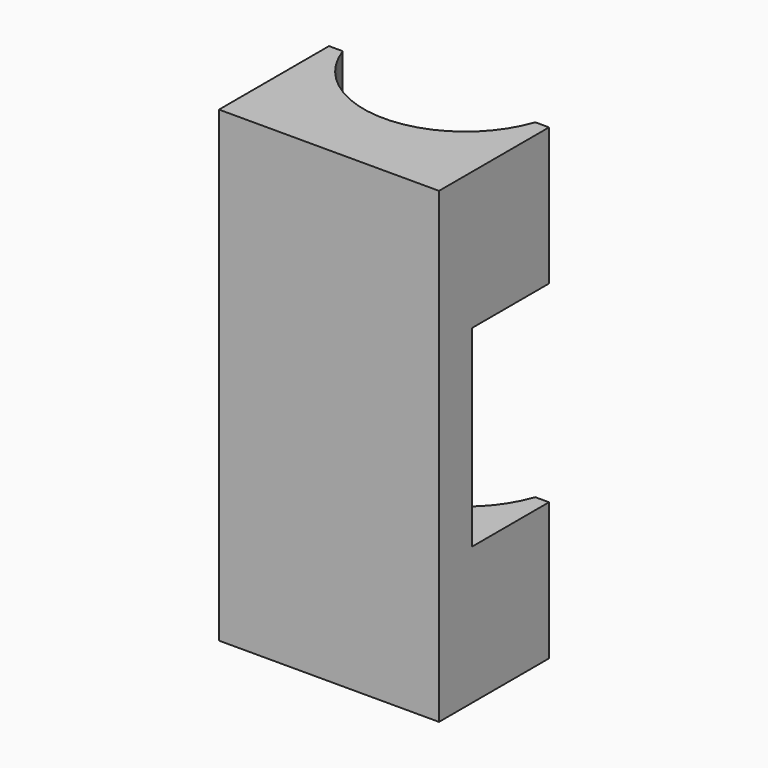
from build123d import *

# Parameters (mm, degrees)
F1_DEPTH = 25
F2_W     = 40
F2_H     = 12.5
F3_DEPTH = 35
F5_DEPTH = 25
F6_DEPTH = 5


with BuildPart() as f1:
    # F0 (on Top) → F1 (new body)
    with BuildSketch(Plane.XY):
        with BuildLine():
            ThreePointArc((17.5, -6), (0, -18.5), (-17.5, -6))
            Line((-17.5, -6), (-20, -6))
            Line((-20, -6), (-20, -31))
            Line((-20, -31), (20, -31))
            Line((20, -31), (20, -6))
            Line((20, -6), (17.5, -6))
        make_face()
    extrude(amount=F1_DEPTH)

    # F2 (on face) → F3 (join)
    with BuildSketch(Plane(origin=(0, 0, 0), x_dir=(1, 0, 0), z_dir=(0, 0, -1))):
        with Locations((0, 24.75)):
            Rectangle(F2_W, F2_H)
    extrude(amount=F3_DEPTH)

    # F4 (on face) → F5 (join)
    with BuildSketch(Plane(origin=(0, 0, -35), x_dir=(1, 0, 0), z_dir=(0, 0, -1))):
        with BuildLine():
            Line((-20, 6), (-17.5, 6))
            ThreePointArc((-17.5, 6), (-10.7529065838, 15.0540692173), (0, 18.5))
            Line((0, 18.5), (-20, 18.5))
            Line((-20, 18.5), (-20, 6))
        make_face()
        Polygon((-20, 18.5), (0, 18.5), (20, 18.5), (20, 31), (-20, 31), align=None)
        with BuildLine():
            ThreePointArc((0, 18.5), (10.7529065838, 15.0540692173), (17.5, 6))
            Line((17.5, 6), (20, 6))
            Line((20, 6), (20, 18.5))
            Line((20, 18.5), (0, 18.5))
        make_face()
    extrude(amount=F5_DEPTH)

    # F6 (cut): a face of the model
    f6_faces = [f1.faces().sort_by_distance(p)[0] for p in [
        (0, -18.5, -17.5),
    ]]
    extrude(f6_faces, amount=-F6_DEPTH, mode=Mode.SUBTRACT)


solid = f1.part
